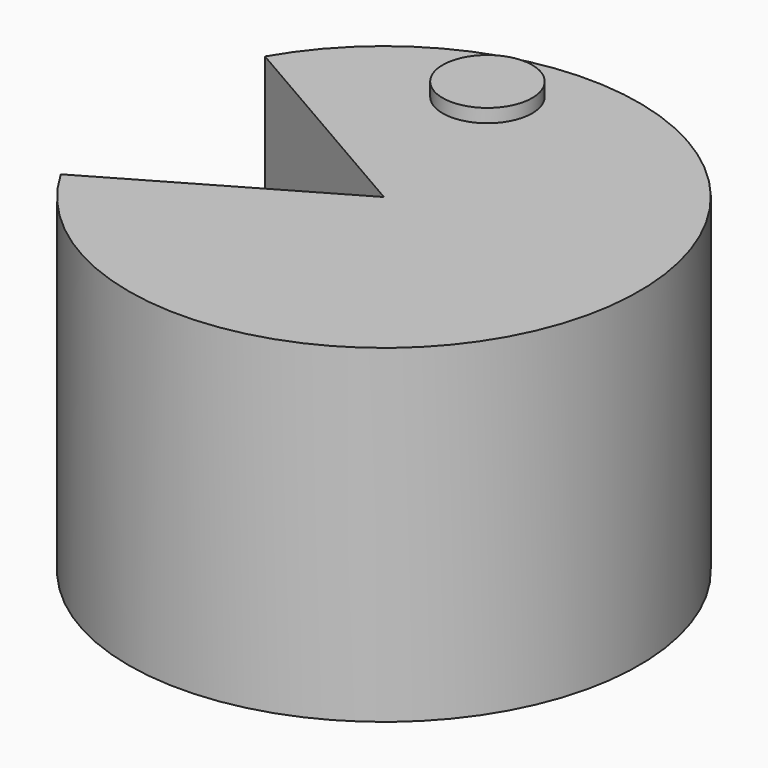
from build123d import *

# Parameters (mm, degrees)
F0_W          = 36.3989807665
F0_H          = 46.9546951354
F1_ANGLE_BACK = 150
F1_ANGLE      = 300
F2_R          = 6.3818530104
F3_DEPTH      = 25.4


with BuildPart() as f1:
    # F0 (on Front) → F1 (revolve)
    with BuildSketch(Plane.XZ, mode=Mode.PRIVATE) as f1_sk:
        with Locations((18.1994903833, 0)):
            Rectangle(F0_W, F0_H)
    revolve(f1_sk.sketch.rotate(Axis((0, 0, 0), (0, 0, -1)), -F1_ANGLE_BACK), axis=Axis((0, 0, 0), (0, 0, -1)), revolution_arc=F1_ANGLE)

    # F2 (on Top) → F3 (join, symmetric)
    with BuildSketch(Plane.XY):
        with Locations((-6.0975761153, 26.0735042393)):
            Circle(F2_R)
    extrude(amount=F3_DEPTH, both=True)


solid = f1.part
